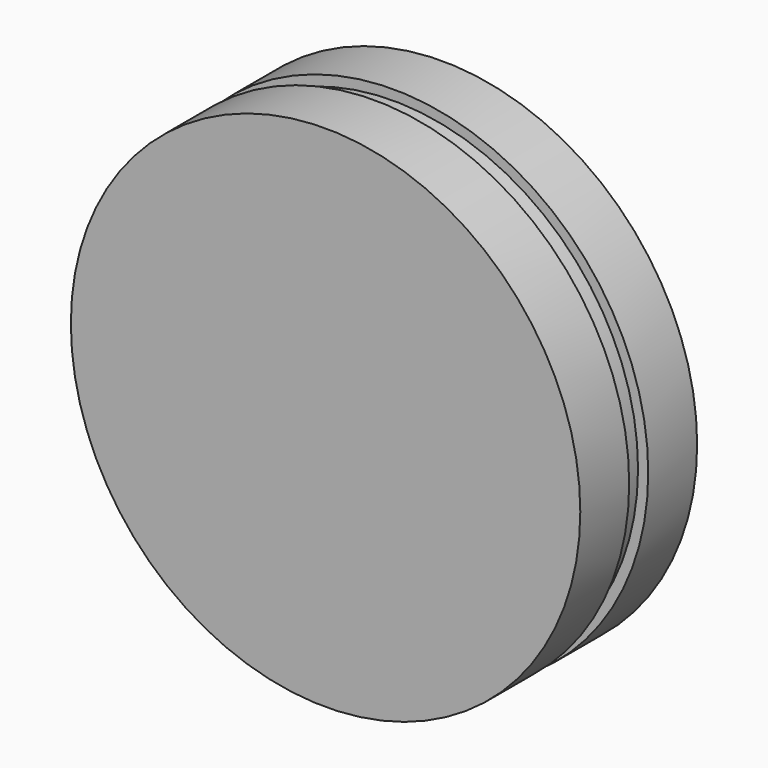
from build123d import *

# Parameters (mm, degrees)
F0_R          = 12.5
F1_DEPTH      = 3
F2_R          = 12
F3_DEPTH      = 1.666667
F4_R          = 12.5
F4_R_2        = 12
F5_DEPTH      = 2.5
F5_DEPTH_BACK = 0.5


with BuildPart() as f1:
    # F0 (on Front) → F1 (new body)
    with BuildSketch(Plane.XZ):
        with Locations((-48.996713, 23.240132)):
            Circle(F0_R)
    extrude(amount=F1_DEPTH)

    # F2 (on face) → F3 (join)
    with BuildSketch(Plane.XZ.offset(3)):
        with Locations((-48.997421, 23.245247)):
            Circle(F2_R)
    extrude(amount=F3_DEPTH)

    # F4 (on face) → F5 (join, two sides)
    with BuildSketch(Plane.XZ.offset(4.666667)) as f5_sk:
        with Locations((-48.997421, 23.245247)):
            Circle(F4_R)
        with Locations((-48.997421, 23.245247)):
            Circle(F4_R_2, mode=Mode.SUBTRACT)
        with Locations((-48.997421, 23.245247)):
            Circle(F4_R_2)
    extrude(amount=F5_DEPTH)
    extrude(f5_sk.sketch, amount=-F5_DEPTH_BACK)


solid = f1.part
